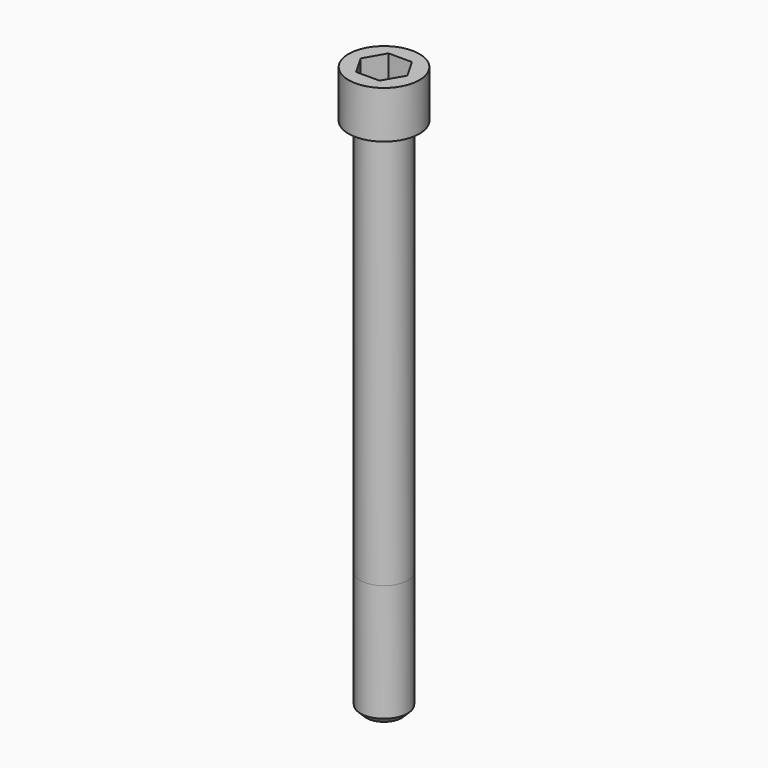
from build123d import *

# Parameters (mm, degrees)
POCKET_DEPTH = 17.1


with BuildPart() as part:
    # Sketch → Revolve (revolve)
    with BuildSketch(Plane.YZ):
        with BuildLine():
            Line((9.999, 0), (15, 0))
            Line((15, 0), (15, 19.97229))
            ThreePointArc((15, 19.97229), (14.991884, 19.991884), (14.97229, 20))
            Line((14.97229, 20), (0, 20))
            Line((0, -220), (0, 20))
            Line((7.5, -220), (0, -220))
            Line((10, -217.5), (7.5, -220))
            Line((10, -168), (10, -217.5))
            Line((9.999, 0), (10, -168))
        make_face()
    revolve(axis=Axis((0, 0, 0), (0, 0, 1)))

    # Sketch001 → Pocket (cut)
    with BuildSketch(Plane.XY.offset(20)):
        Polygon((9.87269, 0), (4.936345, 8.55), (-4.936345, 8.55), (-9.87269, 0), (-4.936345, -8.55), (4.936345, -8.55), align=None)
    extrude(amount=-POCKET_DEPTH, mode=Mode.SUBTRACT)


solid = part.part
